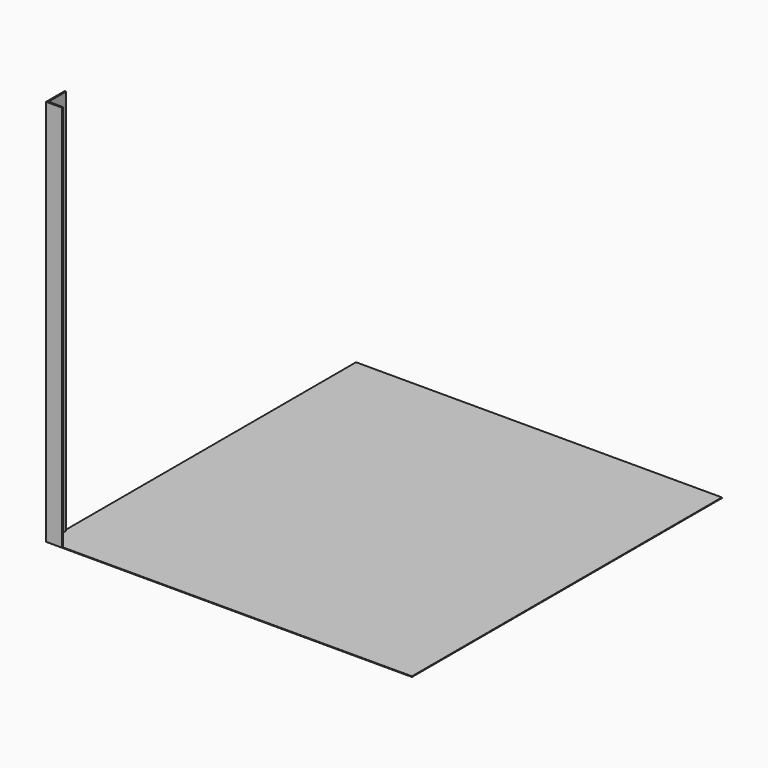
from build123d import *

# Parameters (mm, degrees)
F1_DEPTH = 914.4
F2_W     = 863.6
F2_H     = 914.4
F3_DEPTH = 1.5875


with BuildPart() as f1:
    # F0 (on Top) → F1 (new body)
    with BuildSketch(Plane.XY):
        with BuildLine():
            Line((0, 55.50477), (0, 0))
            Line((0, 0), (38.1, 0))
            Line((38.1, 0), (38.1, 1.5875))
            ThreePointArc((38.1, 1.5875), (37.635032, 2.710032), (36.5125, 3.175))
            Line((36.5125, 3.175), (3.175, 3.175))
            Line((3.175, 3.175), (3.175, 53.91727))
            ThreePointArc((3.175, 53.91727), (2.710032, 55.039802), (1.5875, 55.50477))
            Line((1.5875, 55.50477), (0, 55.50477))
        make_face()
    extrude(amount=F1_DEPTH)


with BuildPart() as f3:
    # F2 (on Top) → F3 (new body)
    with BuildSketch(Plane.XY):
        with Locations((431.8, 457.2)):
            Rectangle(F2_W, F2_H)
    extrude(amount=F3_DEPTH)


solid = Compound([f1.part, f3.part])
